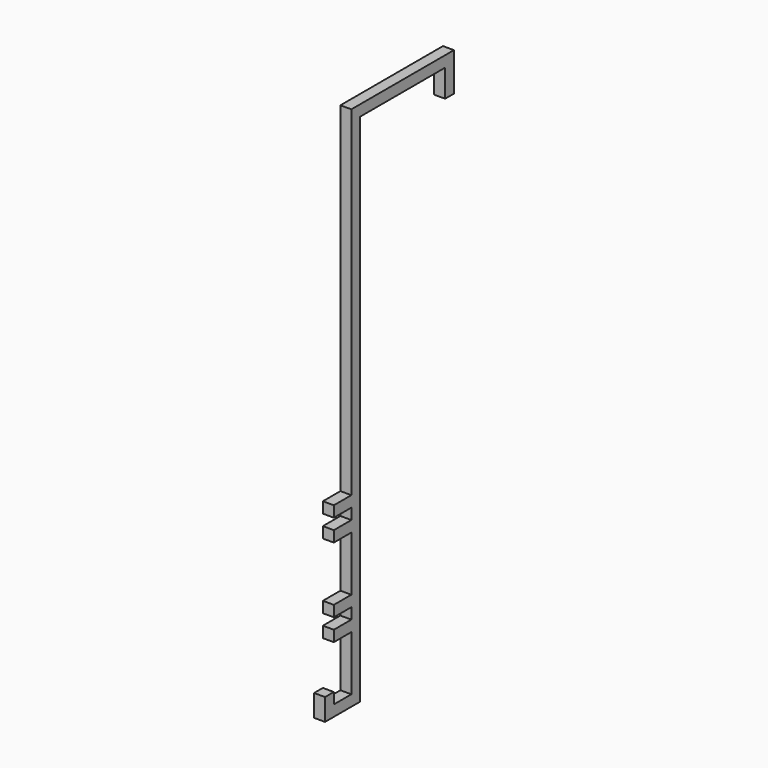
from build123d import *

# Parameters (mm, degrees)
F1_DEPTH = 10


with BuildPart() as f1:
    # F0 (on Right) → F1 (new body)
    with BuildSketch(Plane.YZ):
        Polygon((110.396181, 316.925998), (-6.603819, 316.925998), (-6.603819, 6.925998), (-26.603819, 6.925998), (-26.603819, -3.074002), (-6.603819, -3.074002), (-6.603819, -13.074002), (-26.603819, -13.074002), (-26.603819, -23.074002), (-6.603819, -23.074002), (-6.603819, -73.074002), (-26.603819, -73.074002), (-26.603819, -83.074002), (-6.603819, -83.074002), (-6.603819, -93.074002), (-26.603819, -93.074002), (-26.603819, -103.074002), (-6.603819, -103.074002), (-6.603819, -153.074002), (-26.603819, -153.074002), (-26.603819, -143.074002), (-36.603819, -143.074002), (-36.603819, -163.074002), (3.396181, -163.074002), (3.396181, 306.925998), (100.396181, 306.925998), (100.396181, 281.925998), (110.396181, 281.925998), align=None)
    extrude(amount=-F1_DEPTH)


solid = f1.part
